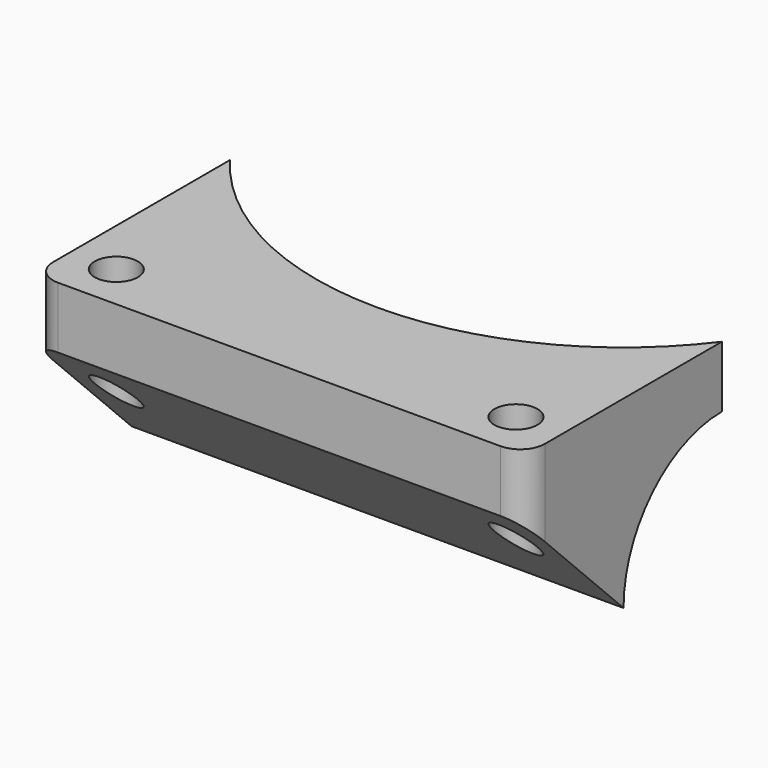
from build123d import *

# Parameters (mm, degrees)
F0_R          = 1.75
F1_DEPTH      = 15
F2_R          = 10
F3_DEPTH      = 25
F3_DEPTH_BACK = 25


with BuildPart() as f1:
    # F0 (on Top) → F1 (new body)
    with BuildSketch(Plane.XY):
        with BuildLine():
            ThreePointArc((20, 10), (0, 0), (-20, 10))
            Line((-20, 10), (-20, -8))
            ThreePointArc((-20, -8), (-19.4142135624, -9.4142135624), (-18, -10))
            Line((-18, -10), (18, -10))
            ThreePointArc((18, -10), (19.4142135624, -9.4142135624), (20, -8))
            Line((20, -8), (20, 10))
        make_face()
        with Locations((-16.25, -6.25)):
            Circle(F0_R, mode=Mode.SUBTRACT)
        with Locations((16.25, -6.25)):
            Circle(F0_R, mode=Mode.SUBTRACT)
    extrude(amount=F1_DEPTH)

    # F2 (on Right) → F3 (cut, two sides)
    with BuildSketch(Plane.YZ) as f3_sk:
        with Locations((10.0002326071, 0)):
            Circle(F2_R)
        Polygon((-10, 10), (-10, 0), (0, 0), align=None)
    extrude(amount=-F3_DEPTH, mode=Mode.SUBTRACT)
    extrude(f3_sk.sketch, amount=F3_DEPTH_BACK, mode=Mode.SUBTRACT)


solid = f1.part
